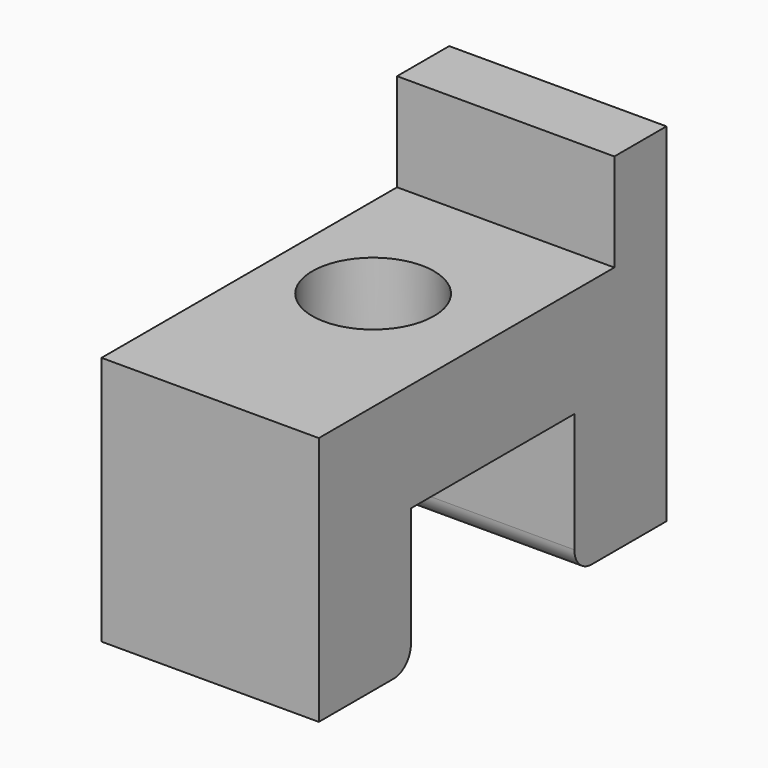
from build123d import *

# Parameters (mm, degrees)
SKETCH_W        = 10
SKETCH_H        = 20
PAD_DEPTH       = 16
SKETCH001_W     = 10
SKETCH001_H     = 17
POCKET_DEPTH    = 4.5
SKETCH002_W     = 10
SKETCH002_H     = 9.4
POCKET001_DEPTH = 6.5
SKETCH003_R     = 1.7
POCKET002_DEPTH = 5
SKETCH004_R     = 2.8
POCKET003_DEPTH = 3
FILLET_R        = 1
FILLET001_R     = 1


with BuildPart() as part:
    # Sketch → Pad (new body)
    with BuildSketch(Plane.XY):
        Rectangle(SKETCH_W, SKETCH_H)
    extrude(amount=PAD_DEPTH)

    # Sketch001 (on Face6 of Pad) → Pocket (cut)
    with BuildSketch(Plane.XY.offset(16)):
        with Locations((0, -1.5)):
            Rectangle(SKETCH001_W, SKETCH001_H)
    extrude(amount=-POCKET_DEPTH, mode=Mode.SUBTRACT)

    # Sketch002 (on Face4 of Pocket) → Pocket001 (cut)
    with BuildSketch(Plane(origin=(0, 0, 0), x_dir=(1, 0, 0), z_dir=(0, 0, -1))):
        Rectangle(SKETCH002_W, SKETCH002_H)
    extrude(amount=-POCKET001_DEPTH, mode=Mode.SUBTRACT)

    # Sketch003 (on Face8 of Pocket001) → Pocket002 (cut)
    with BuildSketch(Plane(origin=(0, 0, 6.5), x_dir=(1, 0, 0), z_dir=(0, 0, -1))):
        with Locations((-0.5, 0)):
            Circle(SKETCH003_R)
    extrude(amount=-POCKET002_DEPTH, mode=Mode.SUBTRACT)

    # Sketch004 (on Face11 of Pocket002) → Pocket003 (cut)
    with BuildSketch(Plane.XY.offset(11.5)):
        with Locations((-0.5, 0)):
            Circle(SKETCH004_R)
    extrude(amount=-POCKET003_DEPTH, mode=Mode.SUBTRACT)

    # Fillet
    fillet_edges = [part.edges().sort_by_distance(p)[0] for p in [
        (0, -4.7, 0),
    ]]
    fillet(fillet_edges, radius=FILLET_R)

    # Fillet001
    fillet001_edges = [part.edges().sort_by_distance(p)[0] for p in [
        (0, 4.7, 0),
    ]]
    fillet(fillet001_edges, radius=FILLET001_R)


solid = part.part
